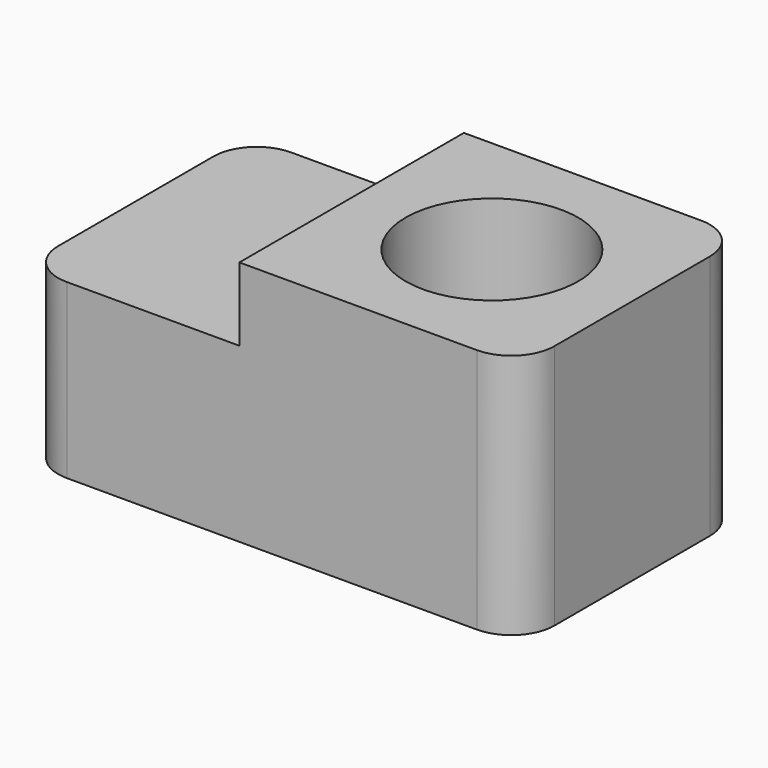
from build123d import *

# Parameters (mm, degrees)
PAD_DEPTH    = 6.5
SKETCH001_R  = 2
POCKET_DEPTH = 5.701
FILLET_R     = 1


with BuildPart() as part:
    # Sketch → Pad (new body)
    with BuildSketch(Plane.XZ):
        Polygon((0, 0), (11.5, 0), (11.5, 5.7), (5, 5.7), (5, 4), (0, 4), align=None)
    extrude(amount=PAD_DEPTH)

    # Sketch001 → Pocket (cut, through all)
    with BuildSketch(Plane(origin=(0, 0, 5.7), x_dir=(-1, 0, 0), z_dir=(0, 0, 1))):
        with Locations((-8.25, 3.25)):
            Circle(SKETCH001_R)
    extrude(amount=-POCKET_DEPTH, mode=Mode.SUBTRACT)

    # Fillet
    fillet_edges = [part.edges().sort_by_distance(p)[0] for p in [
        (0, 0, 2),
        (0, -6.5, 2),
        (11.5, 0, 2.85),
        (11.5, -6.5, 2.85),
    ]]
    fillet(fillet_edges, radius=FILLET_R)


solid = part.part
